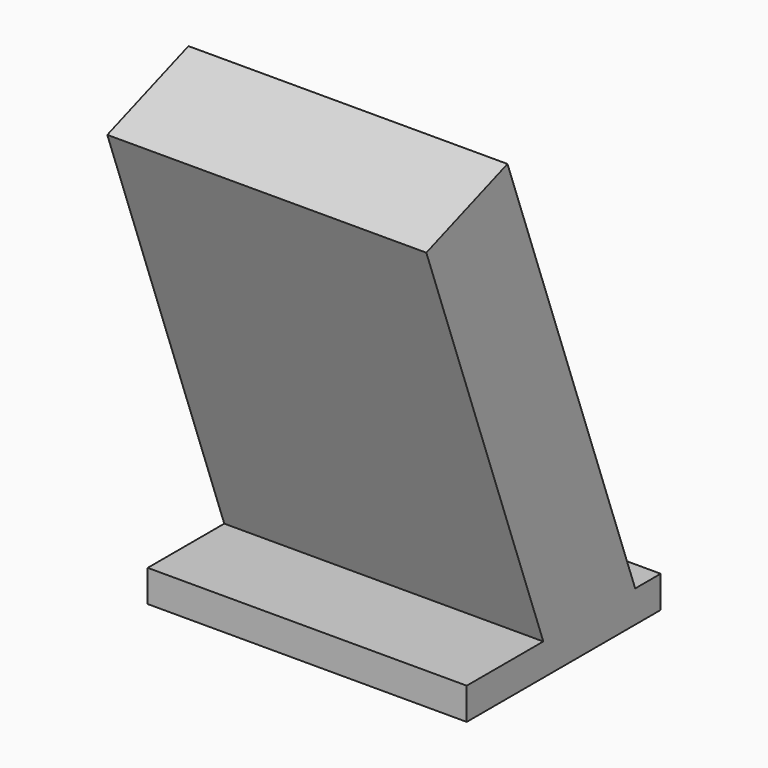
from build123d import *

# Parameters (mm, degrees)
F1_DEPTH      = 63.5
F1_DEPTH_BACK = 63.5
F2_R          = 12.7
F3_DEPTH      = 25.4


with BuildPart() as f1:
    # F0 (on Right) → F1 (new body, two sides)
    with BuildSketch(Plane.YZ) as f1_sk:
        Polygon((-48.26, 6.35), (-48.26, -6.35), (48.26, -6.35), (48.26, 6.35), (35.56, 6.35), (-10.16, 6.35), align=None)
        Polygon((-68.364988, 166.26689), (-10.16, 6.35), (35.56, 6.35), (-27.993212, 180.961015), align=None)
    extrude(amount=F1_DEPTH)
    extrude(f1_sk.sketch, amount=-F1_DEPTH_BACK)

    # F2 (on face) → F3 (cut)
    with BuildSketch(Plane(origin=(0, 33.441121, 12.171573), x_dir=(-1, 0, 0), z_dir=(0, 0.939693, 0.34202))):
        with Locations((-31.75, 147.871973)):
            Circle(F2_R)
        with Locations((0, 147.871973)):
            Circle(F2_R)
        with Locations((31.75, 147.871973)):
            Circle(F2_R)
        with Locations((31.75, 116.121973)):
            Circle(F2_R)
        with Locations((-31.75, 116.121973)):
            Circle(F2_R)
        with Locations((0, 116.121973)):
            Circle(F2_R)
        with Locations((31.75, 84.371973)):
            Circle(F2_R)
        with Locations((0, 84.371973)):
            Circle(F2_R)
        with Locations((-31.75, 84.371973)):
            Circle(F2_R)
        with Locations((0, 52.621973)):
            Circle(F2_R)
        with Locations((31.75, 52.621973)):
            Circle(F2_R)
        with Locations((-31.75, 52.621973)):
            Circle(F2_R)
        with Locations((-31.75, 20.871973)):
            Circle(F2_R)
        with Locations((0, 20.871973)):
            Circle(F2_R)
        with Locations((31.75, 20.871973)):
            Circle(F2_R)
    extrude(amount=-F3_DEPTH, mode=Mode.SUBTRACT)


solid = f1.part
